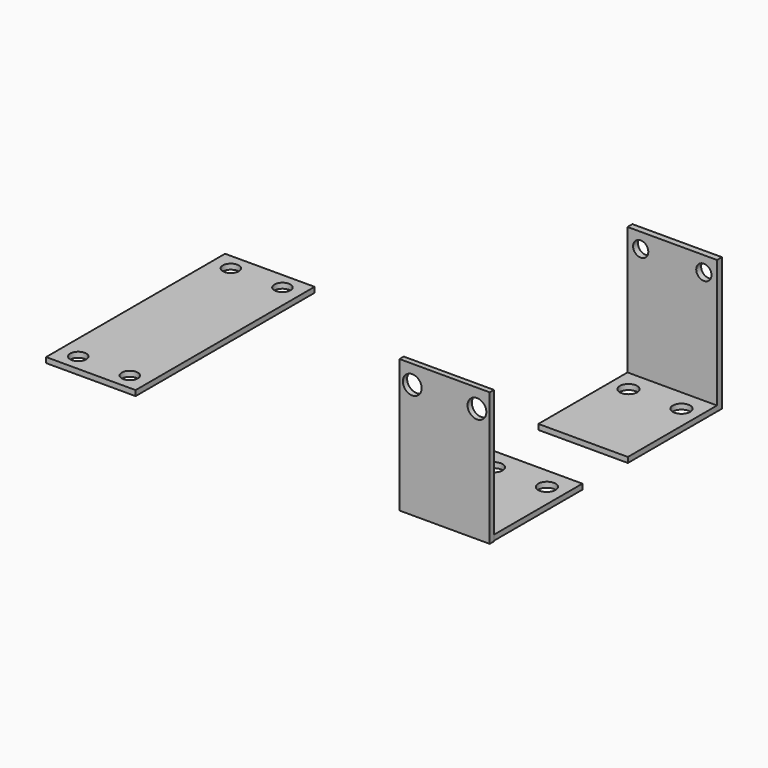
from build123d import *

# Parameters (mm, degrees)
F0_W      = 16.7699885189
F0_H      = 20.8835028134
F0_R      = 1.6294197229
F1_DEPTH  = 1
F0_H_2    = 1.1498763046
F2_DEPTH  = 25
F0_H_3    = 41.9249712973
F0_R_2    = 1.5014178721
F3_DEPTH  = 1
F4_R      = 1.3832178235
F5_DEPTH  = 25
F6_DEPTH  = 1
F7_DEPTH  = 25
F8_R      = 1.7620519939
F9_DEPTH  = 25
F10_R     = 1.4290191918
F11_DEPTH = 25


with BuildPart() as f1:
    # F0 (on Top) → F1 (new body)
    with BuildSketch(Plane.XY):
        with Locations((24.5874928228, 14.6649249665)):
            Rectangle(F0_W, F0_H)
        with Locations((19.6204601819, 21.0676781434)):
            Circle(F0_R, mode=Mode.SUBTRACT)
        with Locations((29.5545254636, 21.0676781434)):
            Circle(F0_R, mode=Mode.SUBTRACT)
    extrude(amount=F1_DEPTH)

    # F0 (on Top) → F2 (join)
    with BuildSketch(Plane.XY):
        with Locations((24.5874928228, 25.6816145255)):
            Rectangle(F0_W, F0_H_2)
    extrude(amount=F2_DEPTH)

    # F4 (on face) → F5 (cut)
    with BuildSketch(Plane(origin=(0, 26.2565526778, 0), x_dir=(-1, 0, 0), z_dir=(0, 1, 0))):
        with Locations((-38.5302771582, 21.377472207)):
            Circle(F4_R)
        with Locations((-10.6447084873, 21.377472207)):
            Circle(F4_R)
    extrude(amount=-F5_DEPTH, mode=Mode.SUBTRACT)

    # F10 (on face) → F11 (cut)
    with BuildSketch(Plane.XZ.offset(-25.1066763732)):
        with Locations((18.6690278351, 22.1664067358)):
            Circle(F10_R)
        with Locations((30.5059578104, 22.1664067358)):
            Circle(F10_R)
    extrude(amount=-F11_DEPTH, mode=Mode.SUBTRACT)


with BuildPart() as f3:
    # F0 (on Top) → F3 (new body)
    with BuildSketch(Plane.XY):
        with Locations((-44.8888061203, -3.2716257687)):
            Rectangle(F0_W, F0_H_3)
        with Locations((-49.7204492679, -21.1470608453)):
            Circle(F0_R_2, mode=Mode.SUBTRACT)
        with Locations((-40.0571629727, -21.1470608453)):
            Circle(F0_R_2, mode=Mode.SUBTRACT)
        with Locations((-49.7204492679, 14.603809308)):
            Circle(F0_R_2, mode=Mode.SUBTRACT)
        with Locations((-40.0571629727, 14.603809308)):
            Circle(F0_R_2, mode=Mode.SUBTRACT)
    extrude(amount=F3_DEPTH)


with BuildPart() as f6:
    # F0 (on Top) → F6 (new body)
    with BuildSketch(Plane.XY):
        with Locations((24.6772297955, -16.9759181976)):
            Rectangle(F0_W, F0_H)
        with Locations((19.7101971547, -10.5731650206)):
            Circle(F0_R, mode=Mode.SUBTRACT)
        with Locations((29.6442624364, -10.5731650206)):
            Circle(F0_R, mode=Mode.SUBTRACT)
    extrude(amount=F6_DEPTH)

    # F0 (on Top) → F7 (join)
    with BuildSketch(Plane.XY):
        Polygon((33.062224055, -27.4176696043), (16.2922355361, -27.4176696043), (16.2922355361, -28.4176696043), (33.2041787669, -28.4176696043), (33.2041787669, -27.4176696043), align=None)
    extrude(amount=F7_DEPTH)

    # F8 (on face) → F9 (cut)
    with BuildSketch(Plane.XZ.offset(28.4176696043)):
        with Locations((18.6853874475, 21.5220544487)):
            Circle(F8_R)
        with Locations((30.8110268555, 21.5220544487)):
            Circle(F8_R)
    extrude(amount=-F9_DEPTH, mode=Mode.SUBTRACT)


solid = Compound([f1.part, f3.part, f6.part])
